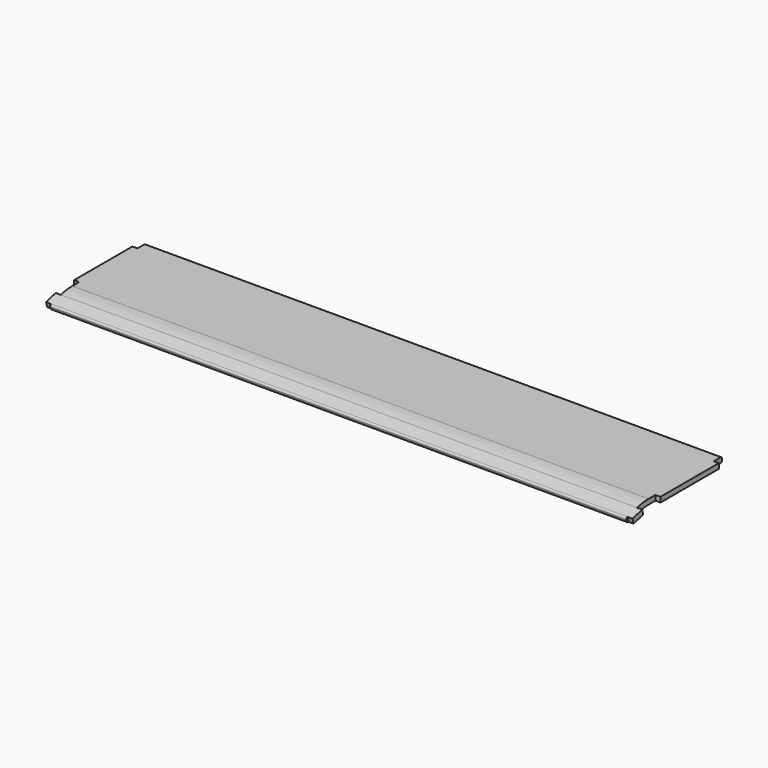
from build123d import *

# Parameters (mm, degrees)
F1_DEPTH = 2080
F2_W     = 39.969242
F2_H     = 51.200114
F2_H_2   = 66.946672
F2_W_2   = 34.220117
F2_H_3   = 62.673524
F3_DEPTH = 25
F4_W     = 37.147605
F4_H     = 21.549247
F4_H_2   = 14.081187
F4_W_2   = 32.29431
F4_H_3   = 23.482673
F4_H_4   = 16.907938
F5_DEPTH = 25


with BuildPart() as f1:
    # F0 (on Right) → F1 (new body)
    with BuildSketch(Plane.YZ):
        with BuildLine():
            Line((-325, 0), (-6, 0))
            ThreePointArc((-6, 0), (-1.757359, 1.757359), (0, 6))
            Line((0, 6), (0, 12))
            ThreePointArc((0, 12), (-1.757359, 16.242641), (-6, 18))
            Line((-6, 18), (-325, 18))
            ThreePointArc((-325, 18), (-350.844186, 16.306083), (-376.246171, 11.253314))
            Line((-376.246171, 11.253314), (-418.746907, -0.134724))
            ThreePointArc((-418.746907, -0.134724), (-422.390145, -2.930279), (-422.989548, -7.483194))
            Line((-422.989548, -7.483194), (-421.436634, -13.278749))
            ThreePointArc((-421.436634, -13.278749), (-418.641079, -16.921987), (-414.088164, -17.521389))
            Line((-414.088164, -17.521389), (-371.587428, -6.133351))
            ThreePointArc((-371.587428, -6.133351), (-348.494715, -1.539925), (-325, 0))
        make_face()
    extrude(amount=F1_DEPTH)

    # F2 (on face) → F3 (cut)
    with BuildSketch(Plane.XY.offset(18)):
        with Locations((2081.984621, -10.399943)):
            Rectangle(F2_W, F2_H)
        with Locations((2081.984621, -328.473336)):
            Rectangle(F2_W, F2_H_2)
        with Locations((0.889942, -328.473336)):
            Rectangle(F2_W_2, F2_H_2)
        with Locations((0.889942, -4.663238)):
            Rectangle(F2_W_2, F2_H_3)
    extrude(amount=-F3_DEPTH, mode=Mode.SUBTRACT)

    # F4 (on face) → F5 (cut)
    with BuildSketch(Plane(origin=(0, -28.017043, 104.561027), x_dir=(1, 0, 0), z_dir=(0, -0.258819, 0.965926))):
        with Locations((-0.573802, -349.738698)):
            Rectangle(F4_W, F4_H)
        with Locations((-0.573802, -411.553915)):
            Rectangle(F4_W, F4_H_2)
        with Locations((2078.147155, -348.771985)):
            Rectangle(F4_W_2, F4_H_3)
        with Locations((2078.147155, -412.967291)):
            Rectangle(F4_W_2, F4_H_4)
    extrude(amount=-F5_DEPTH, mode=Mode.SUBTRACT)


solid = f1.part
